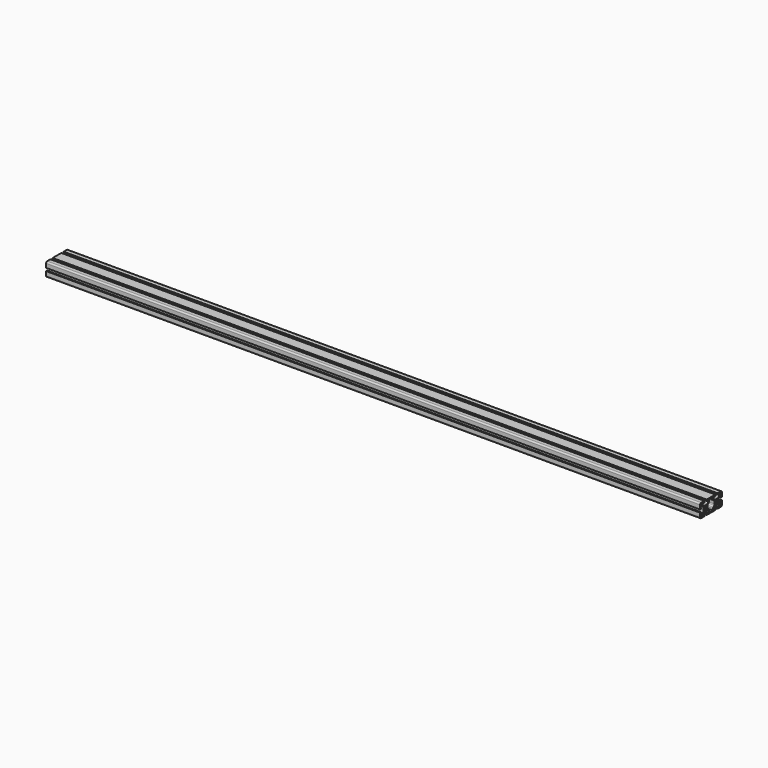
from build123d import *

# Parameters (mm, degrees)
F0_R     = 2.5
F1_DEPTH = 1440


with BuildPart() as f1:
    # F0 (on Right) → F1 (new body)
    with BuildSketch(Plane.YZ):
        with BuildLine():
            Line((-3.1, 15), (-12, 15))
            ThreePointArc((-12, 15), (-14.12132, 14.12132), (-15, 12))
            Line((-15, 12), (-15, 3.1))
            Line((-15, 3.1), (-12.8, 3.1))
            ThreePointArc((-12.8, 3.1), (-12.234315, 3.334315), (-12, 3.9))
            Line((-12, 3.9), (-12, 5.6))
            Line((-12, 5.6), (-13.5, 5.6))
            Line((-13.5, 5.6), (-13.5, 8.15))
            Line((-13.5, 8.15), (-10.805, 8.15))
            ThreePointArc((-10.805, 8.15), (-9.65695, 7.921639), (-8.68368, 7.27132))
            Line((-8.68368, 7.27132), (-6.12868, 4.71632))
            ThreePointArc((-6.12868, 4.71632), (-5.478361, 3.74305), (-5.25, 2.595))
            Line((-5.25, 2.595), (-5.25, -2.595))
            ThreePointArc((-5.25, -2.595), (-5.478361, -3.74305), (-6.12868, -4.71632))
            Line((-6.12868, -4.71632), (-8.68368, -7.27132))
            ThreePointArc((-8.68368, -7.27132), (-9.65695, -7.921639), (-10.805, -8.15))
            Line((-10.805, -8.15), (-13.5, -8.15))
            Line((-13.5, -8.15), (-13.5, -5.6))
            Line((-13.5, -5.6), (-12, -5.6))
            Line((-12, -5.6), (-12, -3.9))
            ThreePointArc((-12, -3.9), (-12.234315, -3.334315), (-12.8, -3.1))
            Line((-12.8, -3.1), (-15, -3.1))
            Line((-15, -3.1), (-15, -12))
            ThreePointArc((-15, -12), (-14.12132, -14.12132), (-12, -15))
            Line((-12, -15), (-3.1, -15))
            Line((-3.1, -15), (-3.1, -12.8))
            ThreePointArc((-3.1, -12.8), (-3.334315, -12.234315), (-3.9, -12))
            Line((-3.9, -12), (-5.6, -12))
            Line((-5.6, -12), (-5.6, -13.5))
            Line((-5.6, -13.5), (-8.15, -13.5))
            Line((-8.15, -13.5), (-8.15, -10.805))
            ThreePointArc((-8.15, -10.805), (-7.921639, -9.65695), (-7.27132, -8.68368))
            Line((-7.27132, -8.68368), (-4.71632, -6.12868))
            ThreePointArc((-4.71632, -6.12868), (-3.74305, -5.478361), (-2.595, -5.25))
            Line((-2.595, -5.25), (2.595, -5.25))
            ThreePointArc((2.595, -5.25), (3.74305, -5.478361), (4.71632, -6.12868))
            Line((4.71632, -6.12868), (7.27132, -8.68368))
            ThreePointArc((7.27132, -8.68368), (7.921639, -9.65695), (8.15, -10.805))
            Line((8.15, -10.805), (8.15, -13.5))
            Line((8.15, -13.5), (5.6, -13.5))
            Line((5.6, -13.5), (5.6, -12))
            Line((5.6, -12), (3.9, -12))
            ThreePointArc((3.9, -12), (3.334315, -12.234315), (3.1, -12.8))
            Line((3.1, -12.8), (3.1, -15))
            Line((3.1, -15), (12, -15))
            Line((12, -15), (18, -15))
            Line((18, -15), (26.9, -15))
            Line((26.9, -15), (26.9, -12.8))
            ThreePointArc((26.9, -12.8), (26.665685, -12.234315), (26.1, -12))
            Line((26.1, -12), (24.4, -12))
            Line((24.4, -12), (24.4, -13.5))
            Line((24.4, -13.5), (21.85, -13.5))
            Line((21.85, -13.5), (21.85, -10.805))
            ThreePointArc((21.85, -10.805), (22.078361, -9.65695), (22.72868, -8.68368))
            Line((22.72868, -8.68368), (25.28368, -6.12868))
            ThreePointArc((25.28368, -6.12868), (26.25695, -5.478361), (27.405, -5.25))
            Line((27.405, -5.25), (32.595, -5.25))
            ThreePointArc((32.595, -5.25), (33.74305, -5.478361), (34.71632, -6.12868))
            Line((34.71632, -6.12868), (37.27132, -8.68368))
            ThreePointArc((37.27132, -8.68368), (37.921639, -9.65695), (38.15, -10.805))
            Line((38.15, -10.805), (38.15, -13.5))
            Line((38.15, -13.5), (35.6, -13.5))
            Line((35.6, -13.5), (35.6, -12))
            Line((35.6, -12), (33.9, -12))
            ThreePointArc((33.9, -12), (33.334315, -12.234315), (33.1, -12.8))
            Line((33.1, -12.8), (33.1, -15))
            Line((33.1, -15), (42, -15))
            ThreePointArc((42, -15), (44.12132, -14.12132), (45, -12))
            Line((45, -12), (45, -3.1))
            Line((45, -3.1), (42.853195, -3.1))
            ThreePointArc((42.853195, -3.1), (42.28751, -3.334315), (42.053195, -3.9))
            Line((42.053195, -3.9), (42.053195, -5.6))
            Line((42.053195, -5.6), (43.5, -5.6))
            Line((43.5, -5.6), (43.5, -8.15))
            Line((43.5, -8.15), (40.805, -8.15))
            ThreePointArc((40.805, -8.15), (39.65695, -7.921639), (38.68368, -7.27132))
            Line((38.68368, -7.27132), (36.12868, -4.71632))
            ThreePointArc((36.12868, -4.71632), (35.478361, -3.74305), (35.25, -2.595))
            Line((35.25, -2.595), (35.25, 2.595))
            ThreePointArc((35.25, 2.595), (35.478361, 3.74305), (36.12868, 4.71632))
            Line((36.12868, 4.71632), (38.68405, 7.271691))
            ThreePointArc((38.68405, 7.271691), (39.635582, 7.912904), (40.758236, 8.15))
            Line((40.758236, 8.15), (43.5, 8.15))
            Line((43.5, 8.15), (43.5, 5.591972))
            Line((43.5, 5.591972), (42, 5.591972))
            Line((42, 5.591972), (42, 3.9))
            ThreePointArc((42, 3.9), (42.234315, 3.334315), (42.8, 3.1))
            Line((42.8, 3.1), (45, 3.1))
            Line((45, 3.1), (45, 12))
            ThreePointArc((45, 12), (44.12132, 14.12132), (42, 15))
            Line((42, 15), (33.1, 15))
            Line((33.1, 15), (33.1, 12.8))
            ThreePointArc((33.1, 12.8), (33.334315, 12.234315), (33.9, 12))
            Line((33.9, 12), (35.6, 12))
            Line((35.6, 12), (35.6, 13.5))
            Line((35.6, 13.5), (38.15, 13.5))
            Line((38.15, 13.5), (38.15, 10.805))
            ThreePointArc((38.15, 10.805), (37.921639, 9.65695), (37.27132, 8.68368))
            Line((37.27132, 8.68368), (34.71632, 6.12868))
            ThreePointArc((34.71632, 6.12868), (33.74305, 5.478361), (32.595, 5.25))
            Line((32.595, 5.25), (27.405, 5.25))
            ThreePointArc((27.405, 5.25), (26.25695, 5.478361), (25.28368, 6.12868))
            Line((25.28368, 6.12868), (22.72868, 8.68368))
            ThreePointArc((22.72868, 8.68368), (22.078361, 9.65695), (21.85, 10.805))
            Line((21.85, 10.805), (21.85, 13.5))
            Line((21.85, 13.5), (24.4, 13.5))
            Line((24.4, 13.5), (24.4, 12))
            Line((24.4, 12), (26.1, 12))
            ThreePointArc((26.1, 12), (26.665685, 12.234315), (26.9, 12.8))
            Line((26.9, 12.8), (26.9, 15))
            Line((26.9, 15), (18.489018, 15))
            Line((18.489018, 15), (18, 15))
            Line((18, 15), (12, 15))
            Line((12, 15), (3.1, 15))
            Line((3.1, 15), (3.1, 12.8))
            ThreePointArc((3.1, 12.8), (3.334315, 12.234315), (3.9, 12))
            Line((3.9, 12), (5.6, 12))
            Line((5.6, 12), (5.6, 13.5))
            Line((5.6, 13.5), (8.15, 13.5))
            Line((8.15, 13.5), (8.15, 10.805))
            ThreePointArc((8.15, 10.805), (7.921639, 9.65695), (7.27132, 8.68368))
            Line((7.27132, 8.68368), (4.71632, 6.12868))
            ThreePointArc((4.71632, 6.12868), (3.74305, 5.478361), (2.595, 5.25))
            Line((2.595, 5.25), (-2.595, 5.25))
            ThreePointArc((-2.595, 5.25), (-3.74305, 5.478361), (-4.71632, 6.12868))
            Line((-4.71632, 6.12868), (-7.27132, 8.68368))
            ThreePointArc((-7.27132, 8.68368), (-7.921639, 9.65695), (-8.15, 10.805))
            Line((-8.15, 10.805), (-8.15, 13.5))
            Line((-8.15, 13.5), (-5.6, 13.5))
            Line((-5.6, 13.5), (-5.6, 12))
            Line((-5.6, 12), (-3.9, 12))
            ThreePointArc((-3.9, 12), (-3.334315, 12.234315), (-3.1, 12.8))
            Line((-3.1, 12.8), (-3.1, 15))
        make_face()
        with BuildLine():
            ThreePointArc((-12, -13.5), (-13.06066, -13.06066), (-13.5, -12))
            Line((-13.5, -12), (-13.5, -9.65))
            Line((-13.5, -9.65), (-9.65, -9.65))
            Line((-9.65, -9.65), (-9.65, -13.5))
            Line((-9.65, -13.5), (-12, -13.5))
        make_face(mode=Mode.SUBTRACT)
        Circle(F0_R, mode=Mode.SUBTRACT)
        with BuildLine():
            Line((42, -13.5), (39.65, -13.5))
            Line((39.65, -13.5), (39.65, -9.65))
            Line((39.65, -9.65), (43.5, -9.65))
            Line((43.5, -9.65), (43.5, -12))
            ThreePointArc((43.5, -12), (43.06066, -13.06066), (42, -13.5))
        make_face(mode=Mode.SUBTRACT)
        with BuildLine():
            Line((20.35, -13.5), (9.65, -13.5))
            Line((9.65, -13.5), (9.65, -9.65))
            ThreePointArc((9.65, -9.65), (9.407635, -8.362839), (8.68368, -7.27132))
            Line((8.68368, -7.27132), (6.12868, -4.71632))
            ThreePointArc((6.12868, -4.71632), (5.478361, -3.74305), (5.25, -2.595))
            Line((5.25, -2.595), (5.25, 2.595))
            ThreePointArc((5.25, 2.595), (5.478361, 3.74305), (6.12868, 4.71632))
            Line((6.12868, 4.71632), (8.713914, 7.301555))
            ThreePointArc((8.713914, 7.301555), (9.406719, 8.338411), (9.65, 9.561466))
            Line((9.65, 9.561466), (9.65, 13.5))
            Line((9.65, 13.5), (20.35, 13.5))
            Line((20.35, 13.5), (20.35, 9.65))
            ThreePointArc((20.35, 9.65), (20.600801, 8.366266), (21.31632, 7.27132))
            Line((21.31632, 7.27132), (23.87132, 4.71632))
            ThreePointArc((23.87132, 4.71632), (24.521639, 3.74305), (24.75, 2.595))
            Line((24.75, 2.595), (24.75, -2.595))
            ThreePointArc((24.75, -2.595), (24.521639, -3.74305), (23.87132, -4.71632))
            Line((23.87132, -4.71632), (21.31632, -7.27132))
            ThreePointArc((21.31632, -7.27132), (20.600801, -8.366266), (20.35, -9.65))
            Line((20.35, -9.65), (20.35, -13.5))
        make_face(mode=Mode.SUBTRACT)
        with Locations((30, 0)):
            Circle(F0_R, mode=Mode.SUBTRACT)
        with BuildLine():
            ThreePointArc((-13.5, 12), (-13.06066, 13.06066), (-12, 13.5))
            Line((-12, 13.5), (-9.65, 13.5))
            Line((-9.65, 13.5), (-9.65, 9.65))
            Line((-9.65, 9.65), (-13.5, 9.65))
            Line((-13.5, 9.65), (-13.5, 12))
        make_face(mode=Mode.SUBTRACT)
        with BuildLine():
            ThreePointArc((42, 13.5), (43.06066, 13.06066), (43.5, 12))
            Line((43.5, 12), (43.5, 9.65))
            Line((43.5, 9.65), (39.65, 9.65))
            Line((39.65, 9.65), (39.65, 13.5))
            Line((39.65, 13.5), (42, 13.5))
        make_face(mode=Mode.SUBTRACT)
    extrude(amount=F1_DEPTH)


solid = f1.part
